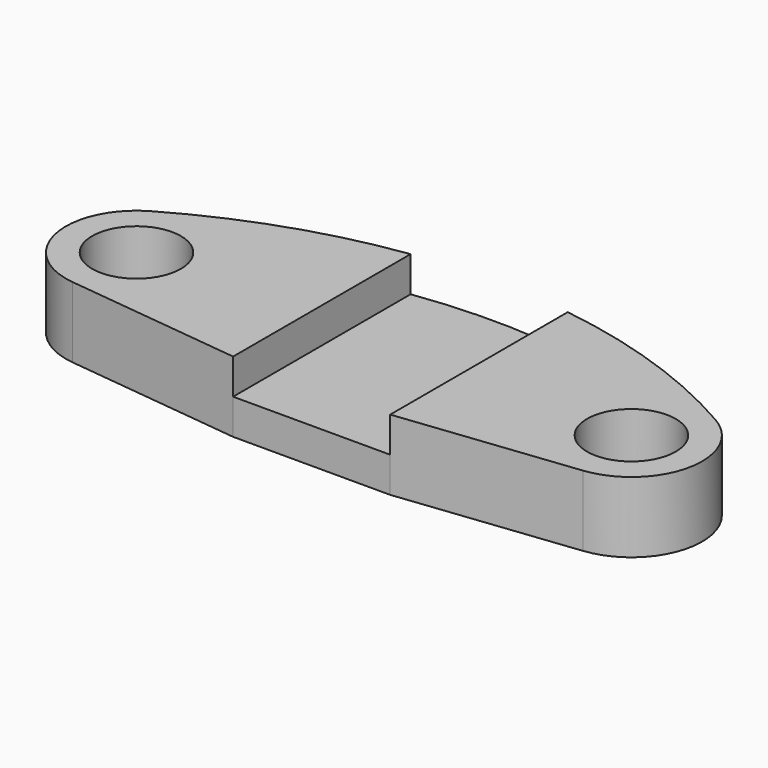
from build123d import *

# Parameters (mm, degrees)
F0_R     = 1.4351
F1_DEPTH = 2.286
F2_W     = 5.08
F2_H     = 10.621818
F3_DEPTH = 1.143


with BuildPart() as f1:
    # F0 (on Top) → F1 (new body)
    with BuildSketch(Plane.XY):
        with BuildLine():
            ThreePointArc((-2.54, 4.252614), (-5.951509, 3.434359), (-9.144, 1.979734))
            ThreePointArc((-9.144, 1.979734), (-10.239018, -0.46591), (-8.259002, -2.271394))
            Line((-8.259002, -2.271394), (-2.54, -2.921))
            Line((-2.54, -2.921), (-2.54, 4.252614))
        make_face()
        with Locations((-8.001, 0)):
            Circle(F0_R, mode=Mode.SUBTRACT)
        with BuildLine():
            ThreePointArc((2.54, 4.252614), (0, 4.429861), (-2.54, 4.252614))
            Line((-2.54, 4.252614), (-2.54, -2.921))
            Line((-2.54, -2.921), (2.54, -2.921))
            Line((2.54, -2.921), (2.54, 4.252614))
        make_face()
        with BuildLine():
            ThreePointArc((9.144, 1.979734), (5.951509, 3.434359), (2.54, 4.252614))
            Line((2.54, 4.252614), (2.54, -2.921))
            Line((2.54, -2.921), (8.259002, -2.271394))
            ThreePointArc((8.259002, -2.271394), (10.239018, -0.46591), (9.144, 1.979734))
        make_face()
        with Locations((8.001, 0)):
            Circle(F0_R, mode=Mode.SUBTRACT)
    extrude(amount=F1_DEPTH)

    # F2 (on face) → F3 (cut)
    with BuildSketch(Plane.XY.offset(2.286)):
        with Locations((0, 0.276294)):
            Rectangle(F2_W, F2_H)
    extrude(amount=-F3_DEPTH, mode=Mode.SUBTRACT)


solid = f1.part
